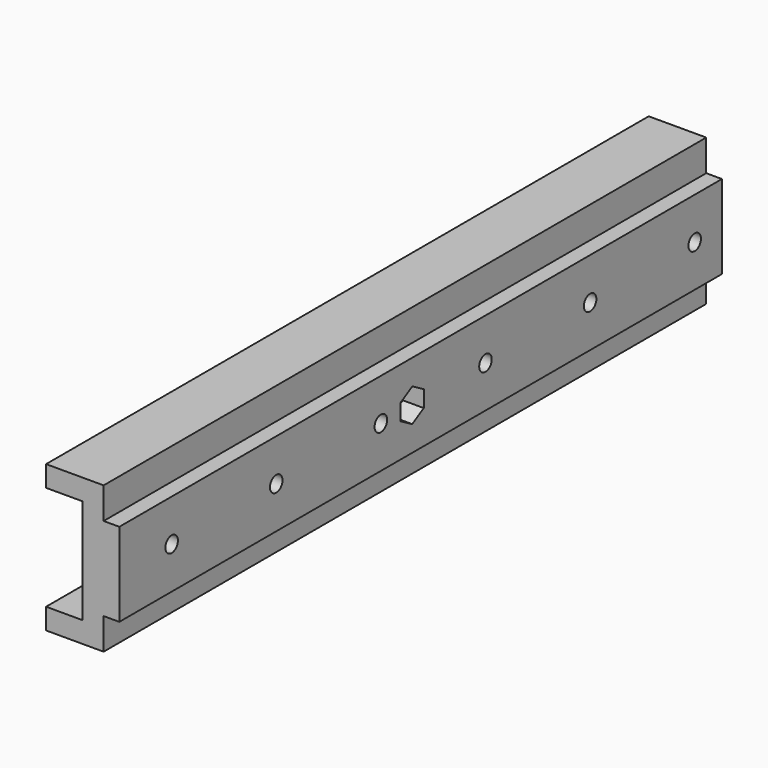
from build123d import *

# Parameters (mm, degrees)
PAD025_DEPTH            = 144
SKETCH042_R             = 1.5
POCKET008_DEPTH         = 7
POCKET009_DEPTH         = 4
SKETCH012_R             = 1.5
POCKET012_DEPTH         = 7
POCKET013_DEPTH         = 5
BODY013_PLACEMENT_ANGLE = 180


with BuildPart() as rightback:
    # Sketch041 → Pad025 (new body)
    with BuildSketch(Plane.XZ):
        Polygon((0, 0), (0, 10), (-7, 10), (-7, 14), (4, 14), (4, 8), (7, 8), (7, -8), (4, -8), (4, -14), (-7, -14), (-7, -10), (0, -10), align=None)
    extrude(amount=PAD025_DEPTH)

    # Sketch042 (on Face6 of Pad025) → Pocket008 (cut)
    with BuildSketch(Plane(origin=(7, 0, 0), x_dir=(0, 0, 1), z_dir=(1, 0, 0))):
        with Locations((0, 74)):
            Circle(SKETCH042_R)
    extrude(amount=-POCKET008_DEPTH, mode=Mode.SUBTRACT)

    # Sketch006 (on Face11 of Pocket008) → Pocket009 (cut)
    with BuildSketch(Plane(origin=(7, 0, 0), x_dir=(0, 0, 1), z_dir=(1, 0, 0))):
        Polygon((3.176, 74.000007), (1.587994, 76.7505), (-1.588006, 76.750493), (-3.176, 73.999993), (-1.587994, 71.2495), (1.588006, 71.249507), align=None)
    extrude(amount=-POCKET009_DEPTH, mode=Mode.SUBTRACT)

    # Sketch012 (on Face2 of Pocket009) → Pocket012 (cut)
    with BuildSketch(Plane(origin=(0, 0, 0), x_dir=(0, 0, -1), z_dir=(-1, 0, 0))):
        with Locations((0, 131.5)):
            Circle(SKETCH012_R)
        with Locations((0, 106.5)):
            Circle(SKETCH012_R)
        with Locations((0, 56.5)):
            Circle(SKETCH012_R)
        with Locations((0, 31.5)):
            Circle(SKETCH012_R)
        with Locations((0, 6.5)):
            Circle(SKETCH012_R)
        with Locations((0, 81.5)):
            Circle(SKETCH012_R)
    extrude(amount=-POCKET012_DEPTH, mode=Mode.SUBTRACT)

    # Sketch013 → Pocket013 (cut)
    with BuildSketch(Plane(origin=(0, 0, 0), x_dir=(0, 0, -1), z_dir=(-1, 0, 0))):
        Polygon((3.175246, 131.569182), (1.52771, 134.284435), (-1.647536, 134.215253), (-3.175246, 131.430818), (-1.52771, 128.715565), (1.647536, 128.784747), align=None)
        Polygon((3.176, 106.5), (1.588, 109.250497), (-1.588, 109.250497), (-3.176, 106.5), (-1.588, 103.749503), (1.588, 103.749503), align=None)
        Polygon((3.176, 56.50001), (1.587991, 59.250502), (-1.588009, 59.250491), (-3.176, 56.49999), (-1.587991, 53.749498), (1.588009, 53.749509), align=None)
        Polygon((3.176, 31.499996), (1.588004, 34.250495), (-1.587996, 34.250499), (-3.176, 31.500004), (-1.588004, 28.749505), (1.587996, 28.749501), align=None)
        Polygon((3.176, 81.5), (1.588, 84.250497), (-1.588, 84.250497), (-3.176, 81.5), (-1.588, 78.749503), (1.588, 78.749503), align=None)
        Polygon((3.176, 6.5), (1.588, 9.250497), (-1.588, 9.250497), (-3.176, 6.5), (-1.588, 3.749503), (1.588, 3.749503), align=None)
    extrude(amount=-POCKET013_DEPTH, mode=Mode.SUBTRACT)


with BuildPart() as rightback_1:
    # Body013 placement: moved
    add(rightback.part.moved(Location((76, -265.5, 13.5))).rotate(Axis((76, -265.5, 13.5), (0, 1, 0)), BODY013_PLACEMENT_ANGLE))


with BuildPart() as leftback:
    # Part__Mirroring002: instance of RightBack
    add(rightback_1.part.mirror(Plane(origin=(0, 0, 0), x_dir=(0, -1, 0), z_dir=(1, 0, 0))))


solid = leftback.part
